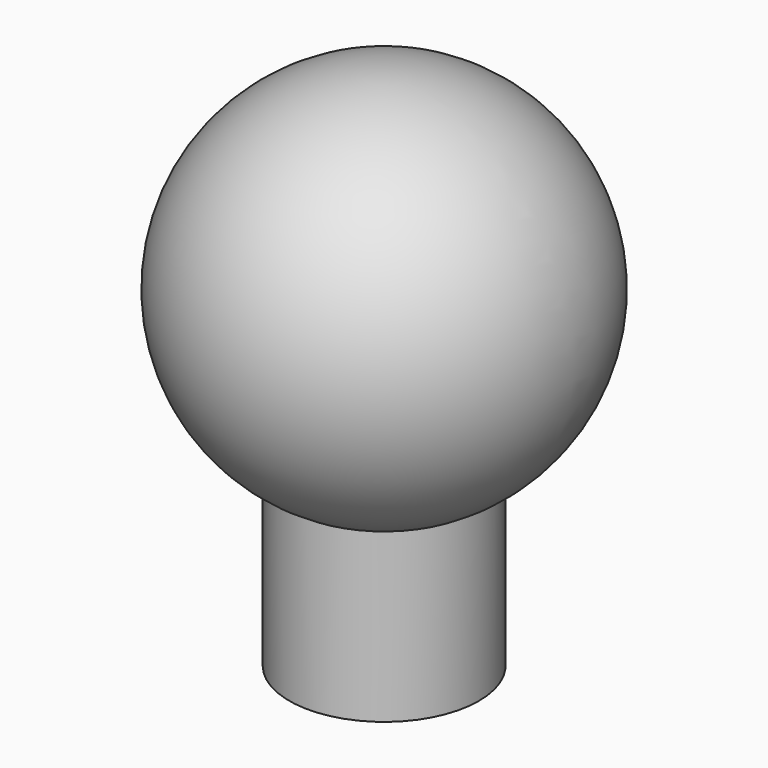
from build123d import *

# Parameters (mm, degrees)
F0_W     = 10
F0_H     = 15
F2_DEPTH = 25.4


with BuildPart() as f1:
    # F0 (on Front) → F1 (revolve)
    with BuildSketch(Plane.XZ):
        with BuildLine():
            Line((0, 20), (0, -20))
            ThreePointArc((0, -20), (20, 0), (0, 20))
        make_face()
    revolve(axis=Axis((0, 0, 0), (0, 0, -1)))



with BuildPart() as f1b:
    # F0 (on Front) → F1, piece 2 (revolve)
    with BuildSketch(Plane.XZ):
        with Locations((5, -27.5)):
            Rectangle(F0_W, F0_H)
    revolve(axis=Axis((0, 0, 0), (0, 0, -1)))


with BuildPart() as f1_1:
    add(f1.part)
    # F2 (add): a face of the model
    f2_faces = [f1b.part.faces().sort_by_distance(p)[0] for p in [
        (0, 0, -20),
    ]]

    add(f1b.part)  # F2 merges F1b
    extrude(f2_faces, amount=F2_DEPTH)


solid = f1_1.part
